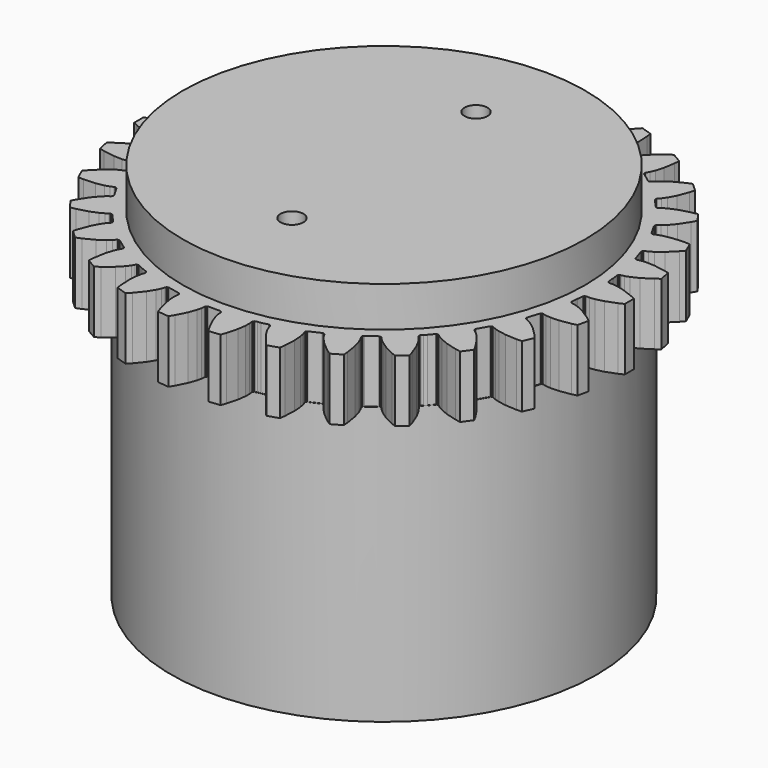
from build123d import *

# Parameters (mm, degrees)
F1_DEPTH = 5.4
F2_R     = 17.5
F3_DEPTH = 3.5
F5_DEPTH = 24.1
F6_W     = 28
F6_H     = 3.4
F7_DEPTH = 32
F8_R     = 1
F9_DEPTH = 2


with BuildPart() as f1:
    # F0 (on Top) → F1 (new body)
    with BuildSketch(Plane.XY):
        Polygon((6.053497, 16.660909), (5.945243, 16.640624), (5.844637, 16.674979), (5.773339, 16.756577), (5.645477, 16.991161), (5.39219, 17.326857), (4.906384, 17.832047), (4.145855, 18.452037), (3.760871, 18.716082), (2.90947, 18.224525), (2.945647, 17.759097), (3.10231, 16.790465), (3.296915, 16.117149), (3.460992, 15.729948), (3.600217, 15.501924), (3.635234, 15.399379), (3.614287, 15.293064), (3.542989, 15.211466), (2.763128, 14.644864), (2.663491, 14.602271), (2.555907, 14.615202), (2.469202, 14.680193), (2.29536, 14.883067), (1.977813, 15.158766), (1.397588, 15.551912), (0.524775, 16.000231), (0.093306, 16.178463), (-0.637289, 15.520632), (-0.505134, 15.072896), (-0.150505, 14.158002), (0.179837, 13.539861), (0.420833, 13.195235), (0.604424, 13.00114), (0.659996, 12.908116), (0.662977, 12.804879), (0.608836, 12.705131), (0.557391, 12.647995), (-0.03618, 11.988768), (-0.124783, 11.92639), (-0.232705, 11.916671), (-0.331028, 11.962215), (-0.54325, 12.124512), (-0.911179, 12.328164), (-1.560465, 12.592083), (-2.507416, 12.849138), (-2.966512, 12.933767), (-3.544372, 12.138412), (-3.322015, 11.727937), (-2.784918, 10.906768), (-2.333276, 10.370816), (-2.025895, 10.083827), (-1.805961, 9.932144), (-1.732263, 9.852707), (-1.708157, 9.747064), (-1.740102, 9.643521), (-2.167855, 8.902631), (-2.222082, 8.808706), (-2.29774, 8.728665), (-2.399324, 8.697324), (-2.504967, 8.72143), (-2.746295, 8.836057), (-3.148526, 8.958762), (-3.838494, 9.08192), (-4.818197, 9.136475), (-5.284857, 9.123804), (-5.684725, 8.225685), (-5.381885, 7.870411), (-4.685794, 7.178855), (-4.13259, 6.748517), (-3.772258, 6.531707), (-3.525594, 6.429065), (-3.43699, 6.366687), (-3.391446, 6.268364), (-3.401165, 6.160442), (-3.699046, 5.243661), (-3.754618, 5.150637), (-3.849256, 5.097863), (-3.957603, 5.099478), (-4.21749, 5.161424), (-4.636442, 5.19782), (-5.33694, 5.174834), (-6.306576, 5.024505), (-6.760403, 4.915087), (-6.964804, 3.953457), (-6.594716, 3.66891), (-5.770054, 3.137191), (-5.139467, 2.831275), (-4.741931, 2.69412), (-4.479317, 2.645006), (-4.37968, 2.602413), (-4.31432, 2.525752), (-4.301758, 2.408123), (-4.338657, 2.057047), (-4.402519, 1.449443), (-4.437536, 1.346898), (-4.519134, 1.2756), (-4.625449, 1.254653), (-4.892536, 1.261213), (-5.309901, 1.209708), (-5.990311, 1.041582), (-6.907503, 0.69294), (-7.328664, 0.491556), (-7.328664, -0.491556), (-6.907503, -0.69294), (-5.990311, -1.041582), (-5.309901, -1.209708), (-4.892536, -1.261213), (-4.625449, -1.254653), (-4.519134, -1.2756), (-4.437536, -1.346898), (-4.402519, -1.449443), (-4.355117, -1.900444), (-4.301758, -2.408123), (-4.314689, -2.515707), (-4.37968, -2.602413), (-4.479317, -2.645006), (-4.741931, -2.69412), (-5.139467, -2.831275), (-5.770054, -3.137191), (-6.594716, -3.66891), (-6.964804, -3.953457), (-6.760403, -4.915087), (-6.306576, -5.024505), (-5.33694, -5.174834), (-4.636442, -5.19782), (-4.21749, -5.161424), (-3.957603, -5.099478), (-3.849256, -5.097863), (-3.754618, -5.150637), (-3.699046, -5.243661), (-3.401165, -6.160442), (-3.391446, -6.268364), (-3.43699, -6.366687), (-3.525594, -6.429065), (-3.772258, -6.531707), (-4.13259, -6.748517), (-4.685794, -7.178855), (-5.381885, -7.870411), (-5.684725, -8.225685), (-5.284857, -9.123804), (-4.818197, -9.136475), (-3.838494, -9.08192), (-3.148526, -8.958762), (-2.746295, -8.836057), (-2.504967, -8.72143), (-2.399324, -8.697324), (-2.29774, -8.728665), (-2.222082, -8.808706), (-2.167855, -8.902631), (-1.740102, -9.643521), (-1.708157, -9.747064), (-1.732263, -9.852707), (-1.805961, -9.932144), (-2.025895, -10.083827), (-2.333276, -10.370816), (-2.784918, -10.906768), (-3.322015, -11.727937), (-3.544372, -12.138412), (-2.966512, -12.933767), (-2.507416, -12.849138), (-1.560465, -12.592083), (-0.911179, -12.328164), (-0.54325, -12.124512), (-0.331028, -11.962215), (-0.232705, -11.916671), (-0.124783, -11.92639), (-0.03618, -11.988768), (0.557391, -12.647995), (0.608836, -12.705131), (0.661611, -12.799769), (0.659996, -12.908116), (0.604424, -13.00114), (0.420833, -13.195235), (0.179837, -13.539861), (-0.150505, -14.158002), (-0.505134, -15.072896), (-0.637289, -15.520632), (0.093306, -16.178463), (0.524775, -16.000231), (1.397588, -15.551912), (1.977813, -15.158766), (2.29536, -14.883067), (2.469202, -14.680193), (2.555907, -14.615202), (2.663491, -14.602271), (2.763128, -14.644864), (3.542989, -15.211466), (3.614287, -15.293064), (3.635234, -15.399379), (3.600217, -15.501924), (3.460992, -15.729948), (3.296915, -16.117149), (3.10231, -16.790465), (2.945647, -17.759097), (2.90947, -18.224525), (3.760871, -18.716082), (4.145855, -18.452037), (4.906384, -17.832047), (5.39219, -17.326857), (5.645477, -16.991161), (5.773339, -16.756577), (5.844637, -16.674979), (5.945243, -16.640624), (6.053497, -16.660909), (6.167227, -16.711545), (6.434124, -16.859839), (6.948588, -17.063832), (7.020824, -17.117978), (7.063418, -17.217615), (7.050486, -17.325199), (6.961713, -17.577187), (6.881725, -17.99004), (6.831363, -18.689103), (6.879513, -19.669141), (6.940895, -20.13192), (7.875891, -20.435718), (8.197564, -20.097401), (8.81257, -19.332836), (9.182725, -18.737681), (9.360682, -18.356659), (9.436978, -18.100618), (9.489753, -18.005979), (9.582777, -17.950407), (9.635958, -17.949614), (9.691123, -17.948792), (10.57563, -18.1368), (10.634019, -18.149211), (10.733523, -18.196431), (10.79472, -18.283358), (10.80444, -18.39128), (10.769998, -18.656218), (10.777594, -19.076681), (10.873676, -19.770938), (11.124536, -20.719548), (11.280793, -21.159453), (12.25852, -21.262216), (12.502824, -20.864412), (12.945429, -19.988688), (13.183756, -19.329578), (13.278605, -18.919884), (13.299999, -18.653574), (13.331944, -18.550031), (13.411381, -18.476333), (13.517025, -18.452227), (14.480985, -18.452227), (14.586629, -18.476333), (14.666066, -18.550031), (14.698011, -18.653574), (14.719405, -18.919884), (14.814254, -19.329578), (15.052581, -19.988688), (15.495186, -20.864412), (15.73949, -21.262216), (16.717217, -21.159453), (16.873474, -20.719548), (17.124334, -19.770938), (17.220416, -19.076681), (17.228012, -18.656218), (17.19357, -18.39128), (17.20329, -18.283358), (17.263495, -18.197841), (17.363991, -18.149211), (17.508227, -18.118552), (17.789503, -18.086249), (18.324961, -17.949061), (18.415233, -17.950407), (18.508257, -18.005979), (18.561032, -18.100618), (18.637328, -18.356659), (18.815285, -18.737681), (19.18544, -19.332836), (19.800446, -20.097401), (20.122119, -20.435718), (21.057115, -20.13192), (21.118497, -19.669141), (21.166647, -18.689103), (21.116285, -17.99004), (21.036297, -17.577187), (20.947524, -17.325199), (20.934592, -17.217615), (20.977186, -17.117978), (21.019706, -17.086106), (21.051116, -17.073707), (21.944513, -16.660909), (22.052767, -16.640624), (22.153373, -16.674979), (22.224671, -16.756577), (22.352533, -16.991161), (22.60582, -17.326857), (23.091626, -17.832047), (23.852155, -18.452037), (24.237139, -18.716082), (25.08854, -18.224525), (25.052363, -17.759097), (24.8957, -16.790465), (24.701095, -16.117149), (24.537018, -15.729948), (24.397793, -15.501924), (24.362776, -15.399379), (24.383723, -15.293064), (24.455021, -15.211466), (25.234882, -14.644864), (25.334519, -14.602271), (25.442103, -14.615202), (25.528808, -14.680193), (25.70265, -14.883067), (26.020197, -15.158766), (26.600422, -15.551912), (27.473235, -16.000231), (27.904704, -16.178463), (28.635299, -15.520632), (28.503144, -15.072896), (28.148515, -14.158002), (27.818173, -13.539861), (27.577177, -13.195235), (27.393586, -13.00114), (27.338014, -12.908116), (27.336455, -12.803543), (27.389174, -12.705131), (27.510949, -12.569886), (27.695707, -12.404952), (28.048978, -11.978357), (28.122793, -11.92639), (28.230715, -11.916671), (28.329038, -11.962215), (28.54126, -12.124512), (28.909189, -12.328164), (29.558475, -12.592083), (30.505426, -12.849138), (30.964522, -12.933767), (31.542382, -12.138412), (31.320025, -11.727937), (30.782928, -10.906768), (30.331286, -10.370816), (30.023905, -10.083827), (29.803971, -9.932144), (29.730273, -9.852707), (29.706167, -9.747064), (29.738112, -9.643521), (30.220092, -8.808706), (30.293791, -8.729269), (30.397334, -8.697324), (30.502977, -8.72143), (30.744305, -8.836057), (31.146536, -8.958762), (31.836504, -9.08192), (32.816207, -9.136475), (33.282867, -9.123804), (33.682735, -8.225685), (33.379895, -7.870411), (32.683804, -7.178855), (32.1306, -6.748517), (31.770268, -6.531707), (31.523604, -6.429065), (31.435, -6.366687), (31.389456, -6.268364), (31.399175, -6.160442), (31.697056, -5.243661), (31.752628, -5.150637), (31.847266, -5.097863), (31.955613, -5.099478), (32.2155, -5.161424), (32.634452, -5.19782), (33.33495, -5.174834), (34.304586, -5.024505), (34.758413, -4.915087), (34.962814, -3.953457), (34.592726, -3.66891), (33.768064, -3.137191), (33.137477, -2.831275), (32.739941, -2.69412), (32.477327, -2.645006), (32.37769, -2.602413), (32.31233, -2.525752), (32.299768, -2.408123), (32.336667, -2.057047), (32.353127, -1.900444), (32.406371, -1.432334), (32.435546, -1.346898), (32.517144, -1.2756), (32.623459, -1.254653), (32.890546, -1.261213), (33.307911, -1.209708), (33.988321, -1.041582), (34.905513, -0.69294), (35.326674, -0.491556), (35.326674, 0.491556), (34.905513, 0.69294), (33.988321, 1.041582), (33.307911, 1.209708), (32.890546, 1.261213), (32.623459, 1.254653), (32.517144, 1.2756), (32.435546, 1.346898), (32.406371, 1.432334), (32.353127, 1.900444), (32.371361, 1.984309), (32.299768, 2.408123), (32.313295, 2.520678), (32.37769, 2.602413), (32.477327, 2.645006), (32.739941, 2.69412), (33.137477, 2.831275), (33.768064, 3.137191), (34.592726, 3.66891), (34.962814, 3.953457), (34.758413, 4.915087), (34.304586, 5.024505), (33.33495, 5.174834), (32.634452, 5.19782), (32.2155, 5.161424), (31.955613, 5.099478), (31.847266, 5.097863), (31.752628, 5.150637), (31.697056, 5.243661), (31.399175, 6.160442), (31.389456, 6.268364), (31.435, 6.366687), (31.523604, 6.429065), (31.770268, 6.531707), (32.1306, 6.748517), (32.683804, 7.178855), (33.379895, 7.870411), (33.682735, 8.225685), (33.282867, 9.123804), (32.816207, 9.136475), (31.836504, 9.08192), (31.146536, 8.958762), (30.744305, 8.836057), (30.502977, 8.72143), (30.397334, 8.697324), (30.29575, 8.728665), (30.220092, 8.808706), (29.738112, 9.643521), (29.706167, 9.747064), (29.730273, 9.852707), (29.803971, 9.932144), (30.023905, 10.083827), (30.331286, 10.370816), (30.782928, 10.906768), (31.320025, 11.727937), (31.542382, 12.138412), (30.964522, 12.933767), (30.505426, 12.849138), (29.558475, 12.592083), (28.909189, 12.328164), (28.54126, 12.124512), (28.329038, 11.962215), (28.230715, 11.916671), (28.122793, 11.92639), (28.03419, 11.988768), (27.510949, 12.569886), (27.389174, 12.705131), (27.336455, 12.803543), (27.338014, 12.908116), (27.393586, 13.00114), (27.577177, 13.195235), (27.818173, 13.539861), (28.148515, 14.158002), (28.503144, 15.072896), (28.635299, 15.520632), (27.904704, 16.178463), (27.473235, 16.000231), (26.600422, 15.551912), (26.020197, 15.158766), (25.70265, 14.883067), (25.528808, 14.680193), (25.442103, 14.615202), (25.334519, 14.602271), (25.234882, 14.644864), (24.455021, 15.211466), (24.383723, 15.293064), (24.362776, 15.399379), (24.397793, 15.501924), (24.537018, 15.729948), (24.701095, 16.117149), (24.8957, 16.790465), (25.052363, 17.759097), (25.08854, 18.224525), (24.237139, 18.716082), (23.852155, 18.452037), (23.091626, 17.832047), (22.60582, 17.326857), (22.352533, 16.991161), (22.224671, 16.756577), (22.153373, 16.674979), (22.0544, 16.641182), (21.944513, 16.660909), (21.051116, 17.073707), (21.019706, 17.086106), (20.977186, 17.117978), (20.934592, 17.217615), (20.947524, 17.325199), (21.036297, 17.577187), (21.116285, 17.99004), (21.166647, 18.689103), (21.118497, 19.669141), (21.057115, 20.13192), (20.122119, 20.435718), (19.800446, 20.097401), (19.18544, 19.332836), (18.815285, 18.737681), (18.637328, 18.356659), (18.561032, 18.100618), (18.508257, 18.005979), (18.415233, 17.950407), (18.324961, 17.949061), (17.789503, 18.086249), (17.508227, 18.118552), (17.363991, 18.149211), (17.264487, 18.196431), (17.20329, 18.283358), (17.19357, 18.39128), (17.228012, 18.656218), (17.220416, 19.076681), (17.124334, 19.770938), (16.873474, 20.719548), (16.717217, 21.159453), (15.73949, 21.262216), (15.495186, 20.864412), (15.052581, 19.988688), (14.814254, 19.329578), (14.719405, 18.919884), (14.698011, 18.653574), (14.666066, 18.550031), (14.586629, 18.476333), (14.480985, 18.452227), (13.517025, 18.452227), (13.411381, 18.476333), (13.331944, 18.550031), (13.299999, 18.653574), (13.278605, 18.919884), (13.183756, 19.329578), (12.945429, 19.988688), (12.502824, 20.864412), (12.25852, 21.262216), (11.280793, 21.159453), (11.124536, 20.719548), (10.873676, 19.770938), (10.777594, 19.076681), (10.769998, 18.656218), (10.80444, 18.39128), (10.79472, 18.283358), (10.734515, 18.197841), (10.634019, 18.149211), (10.57563, 18.1368), (9.691123, 17.948792), (9.635958, 17.949614), (9.582777, 17.950407), (9.489753, 18.005979), (9.436978, 18.100618), (9.360682, 18.356659), (9.182725, 18.737681), (8.81257, 19.332836), (8.197564, 20.097401), (7.875891, 20.435718), (6.940895, 20.13192), (6.879513, 19.669141), (6.831363, 18.689103), (6.881725, 17.99004), (6.961713, 17.577187), (7.050486, 17.325199), (7.063418, 17.217615), (7.020824, 17.117978), (6.948588, 17.063832), (6.167227, 16.711545), align=None)
        Polygon((8.547945, 16.776637), (10.693599, 17.327547), (12.89138, 17.605191), (15.10663, 17.605191), (17.304411, 17.327547), (19.450065, 16.776637), (21.509752, 15.961149), (23.45099, 14.893945), (25.243164, 13.591854), (26.858012, 12.075411), (28.270065, 10.368532), (29.457055, 8.498135), (30.400262, 6.493717), (31.084812, 4.38689), (31.499908, 2.210878), (31.639005, 0), (31.499908, -2.210878), (31.084812, -4.38689), (30.400262, -6.493717), (29.457055, -8.498135), (28.270065, -10.368532), (26.858012, -12.075411), (25.243164, -13.591854), (23.45099, -14.893945), (21.509752, -15.961149), (19.450065, -16.776637), (17.304411, -17.327547), (15.10663, -17.605191), (12.89138, -17.605191), (10.693599, -17.327547), (8.547945, -16.776637), (6.488258, -15.961149), (4.586874, -14.915854), (4.54702, -14.893945), (2.754846, -13.591854), (1.139998, -12.075411), (-0.272055, -10.368532), (-1.429377, -8.544884), (-1.459045, -8.498135), (-2.402252, -6.493717), (-3.086802, -4.38689), (-3.501898, -2.210878), (-3.640995, 0), (-3.501898, 2.210878), (-3.086802, 4.38689), (-2.402252, 6.493717), (-1.459045, 8.498135), (-0.272055, 10.368532), (1.139998, 12.075411), (2.754846, 13.591854), (4.54702, 14.893945), (6.488258, 15.961149), align=None, mode=Mode.SUBTRACT)
        Polygon((12.89138, 17.605191), (10.693599, 17.327547), (8.547945, 16.776637), (6.488258, 15.961149), (4.54702, 14.893945), (2.754846, 13.591854), (1.139998, 12.075411), (-0.272055, 10.368532), (-1.459045, 8.498135), (-2.402252, 6.493717), (-3.086802, 4.38689), (-3.501898, 2.210878), (-3.640995, 0), (-3.501898, -2.210878), (-3.086802, -4.38689), (-2.402252, -6.493717), (-1.459045, -8.498135), (-1.429377, -8.544884), (-0.272055, -10.368532), (1.139998, -12.075411), (2.754846, -13.591854), (4.54702, -14.893945), (4.586874, -14.915854), (6.488258, -15.961149), (8.547945, -16.776637), (10.693599, -17.327547), (12.89138, -17.605191), (15.10663, -17.605191), (17.304411, -17.327547), (19.450065, -16.776637), (21.509752, -15.961149), (23.45099, -14.893945), (25.243164, -13.591854), (26.858012, -12.075411), (28.270065, -10.368532), (29.457055, -8.498135), (30.400262, -6.493717), (31.084812, -4.38689), (31.499908, -2.210878), (31.639005, 0), (31.499908, 2.210878), (31.084812, 4.38689), (30.400262, 6.493717), (29.457055, 8.498135), (28.270065, 10.368532), (26.858012, 12.075411), (25.243164, 13.591854), (23.45099, 14.893945), (21.509752, 15.961149), (19.450065, 16.776637), (17.304411, 17.327547), (15.10663, 17.605191), align=None)
    extrude(amount=F1_DEPTH)

    # F2 (on face) → F3 (join)
    with BuildSketch(Plane.XY.offset(5.4)):
        with Locations((13.999005, 0)):
            Circle(F2_R)
    extrude(amount=F3_DEPTH)

    # F4 (on face) → F5 (join)
    with BuildSketch(Plane(origin=(0, 0, 0), x_dir=(1, 0, 0), z_dir=(0, 0, -1))):
        with BuildLine():
            Line((-4.500995, 0), (32.499005, 0))
            ThreePointArc((32.499005, 0), (13.999005, 18.5), (-4.500995, 0))
        make_face()
        with BuildLine():
            ThreePointArc((-4.500995, 0), (13.999005, -18.5), (32.499005, 0))
            Line((32.499005, 0), (-4.500995, 0))
        make_face()
    extrude(amount=F5_DEPTH)

    # F6 (on face) → F7 (cut)
    with BuildSketch(Plane(origin=(0, 0, -24.1), x_dir=(1, 0, 0), z_dir=(0, 0, -1))):
        with Locations((13.999005, 0)):
            Rectangle(F6_W, F6_H)
    extrude(amount=-F7_DEPTH, mode=Mode.SUBTRACT)

    # F8 (on face) → F9 (cut)
    with BuildSketch(Plane.XY.offset(8.9)):
        with Locations((13.999005, 10)):
            Circle(F8_R)
        with Locations((13.999005, -10)):
            Circle(F8_R)
    extrude(amount=-F9_DEPTH, mode=Mode.SUBTRACT)


solid = f1.part
